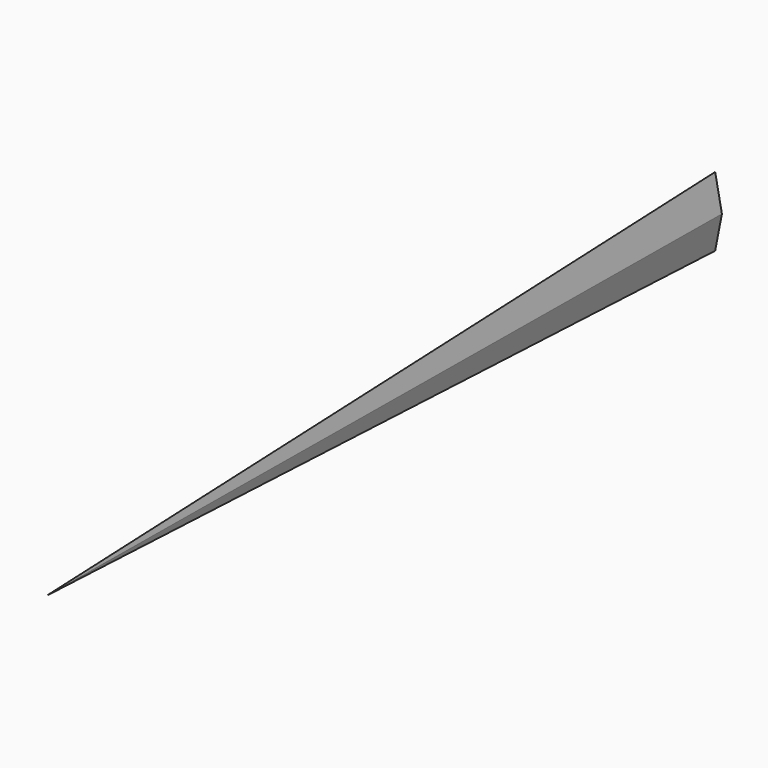
from build123d import *


with BuildPart() as f3:
    # F0 (on Front) → F3 section 0
    with BuildSketch(Plane.XZ, mode=Mode.PRIVATE) as f3_s0:
        Polygon((0, 49.927842), (-9.691876, 0), (0, -49.927842), (9.691876, 0), align=None)
    loft([f3_s0.sketch, Vertex(0.416567, -1203.96, 2.264385)])


solid = f3.part
